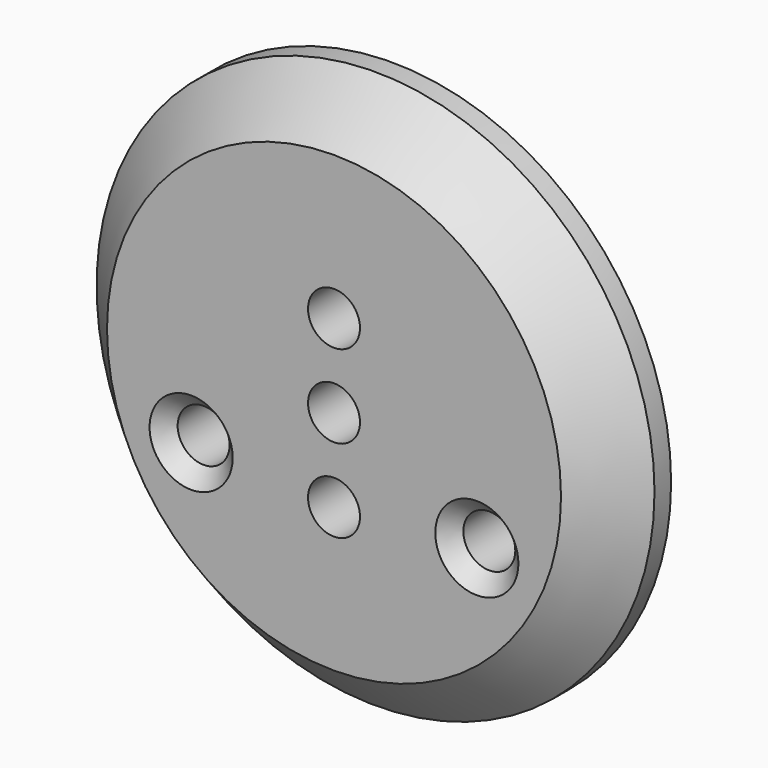
from build123d import *

# Parameters (mm, degrees)
F0_R     = 26.85
F0_R_2   = 2.5
F1_DEPTH = 7
F2_SIZE  = 1.5
F3_SIZE  = 5


with BuildPart() as f1:
    # F0 (on Front) → F1 (new body)
    with BuildSketch(Plane.XZ):
        with Locations((0, 7)):
            Circle(F0_R)
        with Locations((-13.75, 0)):
            Circle(F0_R_2, mode=Mode.SUBTRACT)
        with Locations((0, -1)):
            Circle(F0_R_2, mode=Mode.SUBTRACT)
        with Locations((0, 7)):
            Circle(F0_R_2, mode=Mode.SUBTRACT)
        with Locations((13.75, 0)):
            Circle(F0_R_2, mode=Mode.SUBTRACT)
        with Locations((0, 15)):
            Circle(F0_R_2, mode=Mode.SUBTRACT)
    extrude(amount=F1_DEPTH)

    # F2
    f2_edges = [f1.edges().sort_by_distance(p)[0] for p in [
        (-16.25, -7, 0),
        (11.25, -7, 0),
    ]]
    chamfer(f2_edges, length=F2_SIZE)

    # F3
    f3_edges = [f1.edges().sort_by_distance(p)[0] for p in [
        (-26.85, -7, 7),
    ]]
    chamfer(f3_edges, length=F3_SIZE)


solid = f1.part
